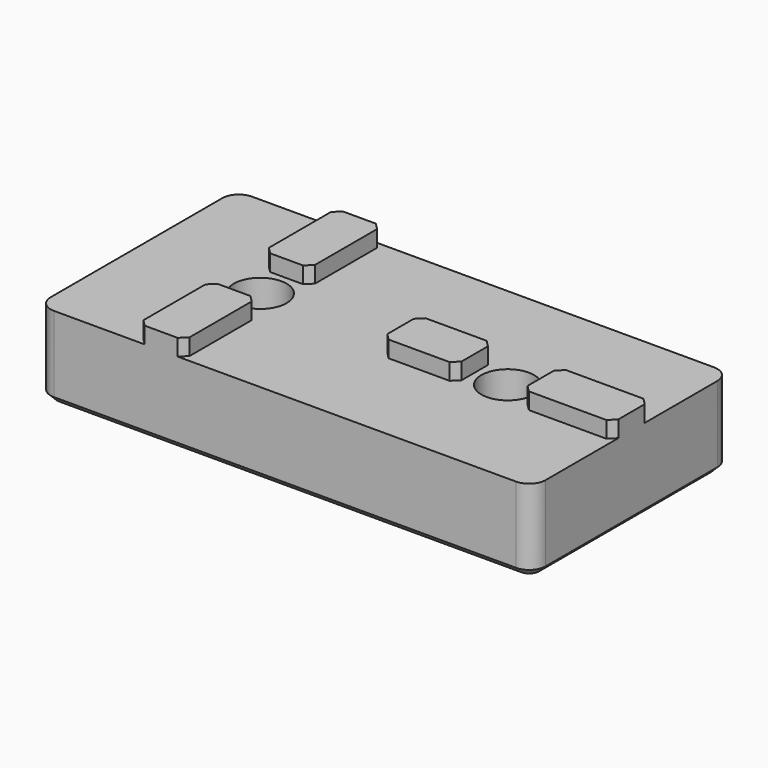
from build123d import *

# Parameters (mm, degrees)
SKETCH039_W                                      = 30
SKETCH039_H                                      = 15
SKETCH039_R                                      = 1.6
PAD008_DEPTH                                     = 5
SKETCH040_W                                      = 4.5
SKETCH040_H                                      = 2.8
SKETCH040_W_2                                    = 5.5
SKETCH040_W_3                                    = 2.8
SKETCH040_H_2                                    = 5.5
PAD009_DEPTH                                     = 1
PAD010_DEPTH                                     = 1
FILLET002_R                                      = 1
CHAMFER004013007011015006009007001005003045_SIZE = 0.4
CHAMFER004013007011015006009007001005003046_SIZE = 0.4


with BuildPart() as part:
    # Sketch039 → Pad008 (new body)
    with BuildSketch(Plane.XY):
        with Locations((15, 7.5)):
            Rectangle(SKETCH039_W, SKETCH039_H)
        with Locations((7.5, 7.5)):
            Circle(SKETCH039_R, mode=Mode.SUBTRACT)
        with Locations((22.5, 7.5)):
            Circle(SKETCH039_R, mode=Mode.SUBTRACT)
    extrude(amount=PAD008_DEPTH)

    # Sketch040 (on Face8 of Pad008) → Pad009 (join)
    with BuildSketch(Plane.XY.offset(5)):
        with Locations((18.25, 7.5)):
            Rectangle(SKETCH040_W, SKETCH040_H)
        with Locations((27.25, 7.5)):
            Rectangle(SKETCH040_W_2, SKETCH040_H)
        with Locations((7.5, 12.25)):
            Rectangle(SKETCH040_W_3, SKETCH040_H_2)
        with Locations((7.5, 2.75)):
            Rectangle(SKETCH040_W_3, SKETCH040_H_2)
    extrude(amount=PAD009_DEPTH)

    # Sketch040 (on Face8 of Pad008) → Pad010 (join)
    with BuildSketch(Plane.XY.offset(5)):
        with Locations((18.25, 7.5)):
            Rectangle(SKETCH040_W, SKETCH040_H)
        with Locations((27.25, 7.5)):
            Rectangle(SKETCH040_W_2, SKETCH040_H)
        with Locations((7.5, 12.25)):
            Rectangle(SKETCH040_W_3, SKETCH040_H_2)
        with Locations((7.5, 2.75)):
            Rectangle(SKETCH040_W_3, SKETCH040_H_2)
    extrude(amount=PAD010_DEPTH)

    # Fillet002
    fillet002_edges = [part.edges().sort_by_distance(p)[0] for p in [
        (30, 0, 2.5),
        (30, 15, 2.5),
        (0, 15, 2.5),
        (0, 0, 2.5),
    ]]
    fillet(fillet002_edges, radius=FILLET002_R)

    # Chamfer004013007011015006009007001005003045
    chamfer004013007011015006009007001005003045_edges = [part.edges().sort_by_distance(p)[0] for p in [
        (30, 8.9, 5.5),
        (24.5, 8.9, 5.5),
        (20.5, 8.9, 5.5),
        (16, 8.9, 5.5),
        (16, 6.1, 5.5),
        (8.9, 15, 5.5),
        (6.1, 15, 5.5),
        (8.9, 5.5, 5.5),
        (6.1, 5.5, 5.5),
        (6.1, 9.5, 5.5),
        (6.1, 0, 5.5),
        (8.9, 9.5, 5.5),
        (8.9, 0, 5.5),
        (20.5, 6.1, 5.5),
        (24.5, 6.1, 5.5),
        (30, 6.1, 5.5),
    ]]
    chamfer(chamfer004013007011015006009007001005003045_edges, length=CHAMFER004013007011015006009007001005003045_SIZE)

    # Chamfer004013007011015006009007001005003046
    chamfer004013007011015006009007001005003046_edges = [part.edges().sort_by_distance(p)[0] for p in [
        (15, 0, 0),
        (29.707107, 0.292893, 0),
        (30, 7.5, 0),
        (29.707107, 14.707107, 0),
        (15, 15, 0),
        (0.292893, 14.707107, 0),
        (0, 7.5, 0),
        (0.292893, 0.292893, 0),
        (20.9, 7.5, 0),
        (5.9, 7.5, 0),
    ]]
    chamfer(chamfer004013007011015006009007001005003046_edges, length=CHAMFER004013007011015006009007001005003046_SIZE)


solid = part.part
